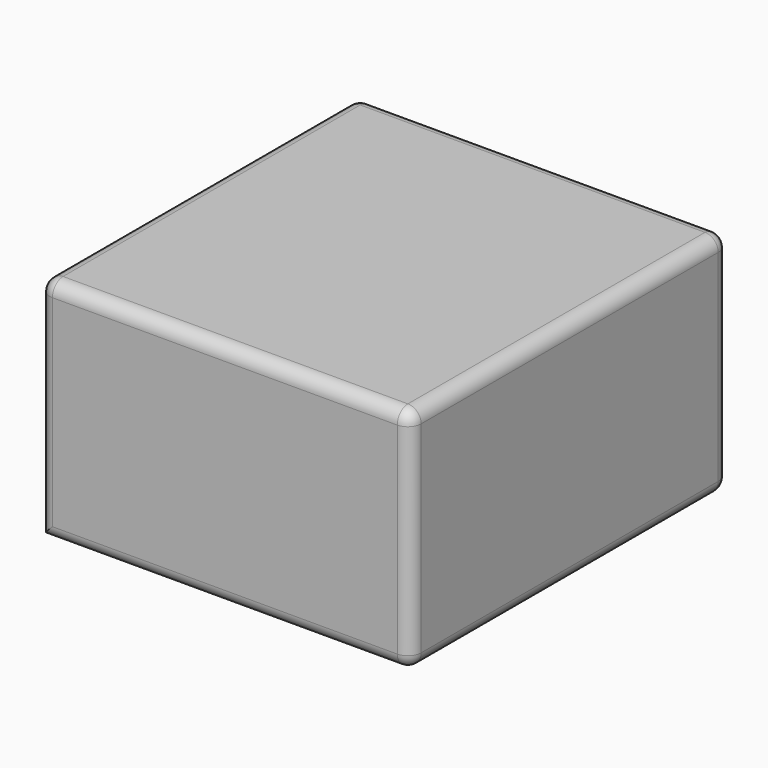
from build123d import *

# Parameters (mm, degrees)
F0_W     = 140
F0_H     = 150
F1_DEPTH = 86
F2_R     = 5


with BuildPart() as f1:
    # F0 (on Top) → F1 (new body)
    with BuildSketch(Plane.XY):
        Rectangle(F0_W, F0_H)
    extrude(amount=F1_DEPTH)

    # F2
    f2_edges = [f1.edges().sort_by_distance(p)[0] for p in [
        (-70, -75, 43),
        (70, -75, 43),
        (0, -75, 0),
        (0, -75, 86),
        (70, 75, 43),
        (70, 0, 0),
        (70, 0, 86),
        (-70, 75, 43),
        (0, 75, 0),
        (0, 75, 86),
        (-70, 0, 86),
    ]]
    fillet(f2_edges, radius=F2_R)


solid = f1.part
